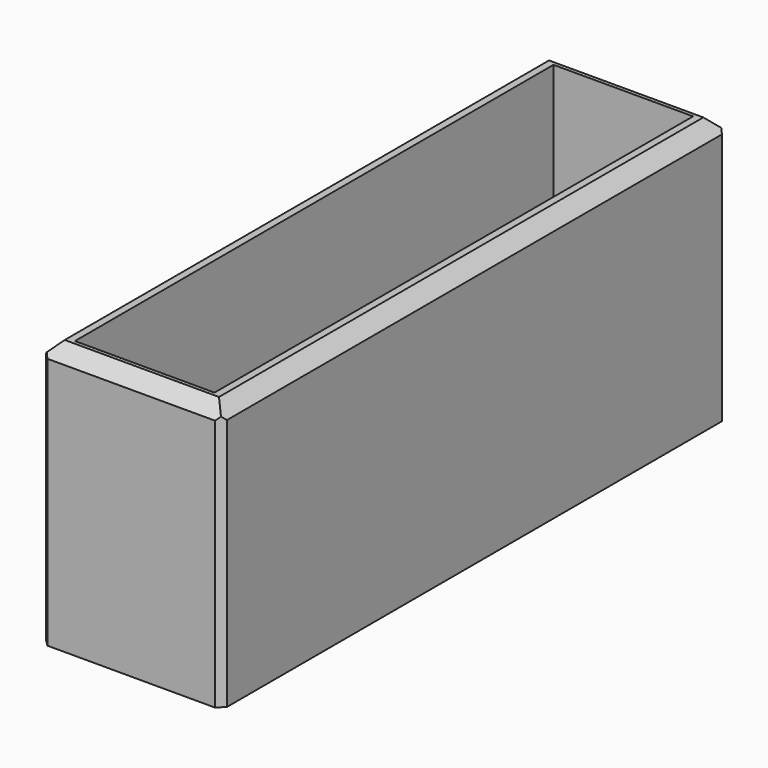
from build123d import *

# Parameters (mm, degrees)
F0_W     = 68.029277
F0_H     = 237.70012
F0_W_2   = 52.5
F0_H_2   = 225
F1_DEPTH = 100
F2_W     = 225
F2_H     = 5
F3_DEPTH = 52.5
F4_SIZE  = 5
F5_SIZE  = 2.5


with BuildPart() as f1:
    # F0 (on Top) → F1 (new body)
    with BuildSketch(Plane.XY):
        with Locations((-22.046504, 0)):
            Rectangle(F0_W, F0_H)
        with Locations((-22.046504, 0)):
            Rectangle(F0_W_2, F0_H_2, mode=Mode.SUBTRACT)
    extrude(amount=F1_DEPTH)

    # F2 (on face) → F3 (join)
    with BuildSketch(Plane.YZ.offset(-48.296504)):
        with Locations((0, 2.5)):
            Rectangle(F2_W, F2_H)
    extrude(amount=F3_DEPTH)

    # F4
    f4_edges = [f1.edges().sort_by_distance(p)[0] for p in [
        (-56.061142, 0, 100),
        (-22.046504, -118.85006, 100),
        (11.968135, 0, 100),
        (-22.046504, 118.85006, 100),
    ]]
    chamfer(f4_edges, length=F4_SIZE)

    # F5
    f5_edges = [f1.edges().sort_by_distance(p)[0] for p in [
        (-56.061142, -118.85006, 47.5),
        (11.968135, -118.85006, 47.5),
        (11.968135, 118.85006, 47.5),
        (-56.061142, 118.85006, 47.5),
    ]]
    chamfer(f5_edges, length=F5_SIZE)


solid = f1.part
